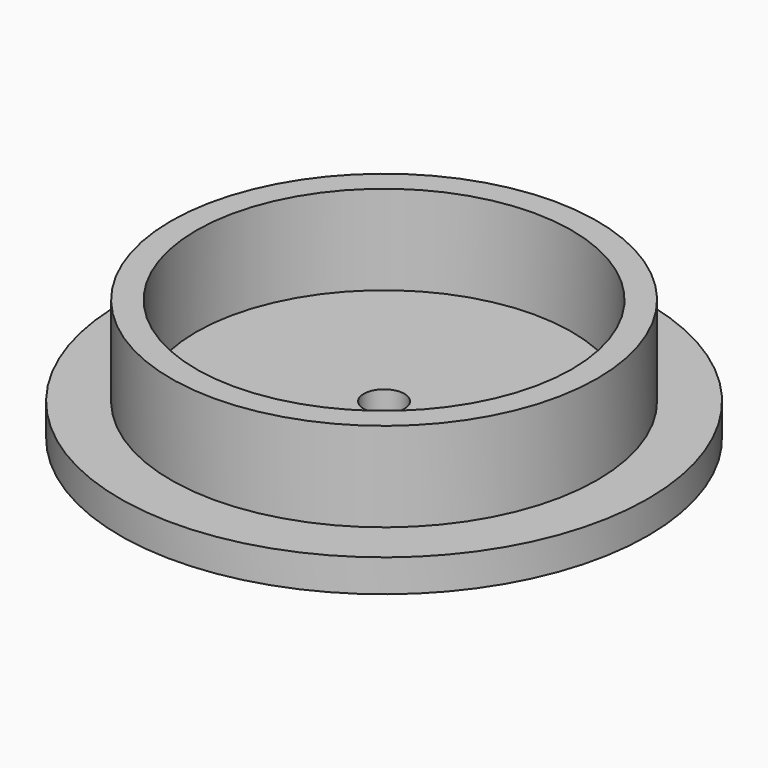
from build123d import *

# Parameters (mm, degrees)
F0_R     = 13
F0_R_2   = 10.5
F1_DEPTH = 1.6
F0_R_3   = 9.25
F2_DEPTH = 6
F3_D     = 2


with BuildPart() as f1:
    # F0 (on Top) → F1 (new body)
    with BuildSketch(Plane.XY):
        with Locations((-8.6057770987, -9.7437467397)):
            Circle(F0_R)
        with Locations((-8.6057770987, -9.7437467397)):
            Circle(F0_R_2, mode=Mode.SUBTRACT)
    extrude(amount=F1_DEPTH)


with BuildPart() as f1b:
    # F0 (on Top) → F1, piece 2 (new body)
    with BuildSketch(Plane.XY):
        with Locations((-8.6057770987, -9.7437467397)):
            Circle(F0_R_3)
    extrude(amount=F1_DEPTH)

    # F3 (through all)
    with Locations(Plane(origin=(0, 0, 0), x_dir=(1, 0, 0), z_dir=(0, 0, -1))):
        with Locations((-8.6057770987, 9.7437467397)):
            Hole(F3_D / 2)


with BuildPart() as f2:
    # F0 (on Top) → F2 (new body)
    with BuildSketch(Plane.XY):
        with Locations((-8.6057770987, -9.7437467397)):
            Circle(F0_R_2)
        with Locations((-8.6057770987, -9.7437467397)):
            Circle(F0_R_3, mode=Mode.SUBTRACT)
    extrude(amount=F2_DEPTH)


solid = Compound([f1.part, f1b.part, f2.part])
